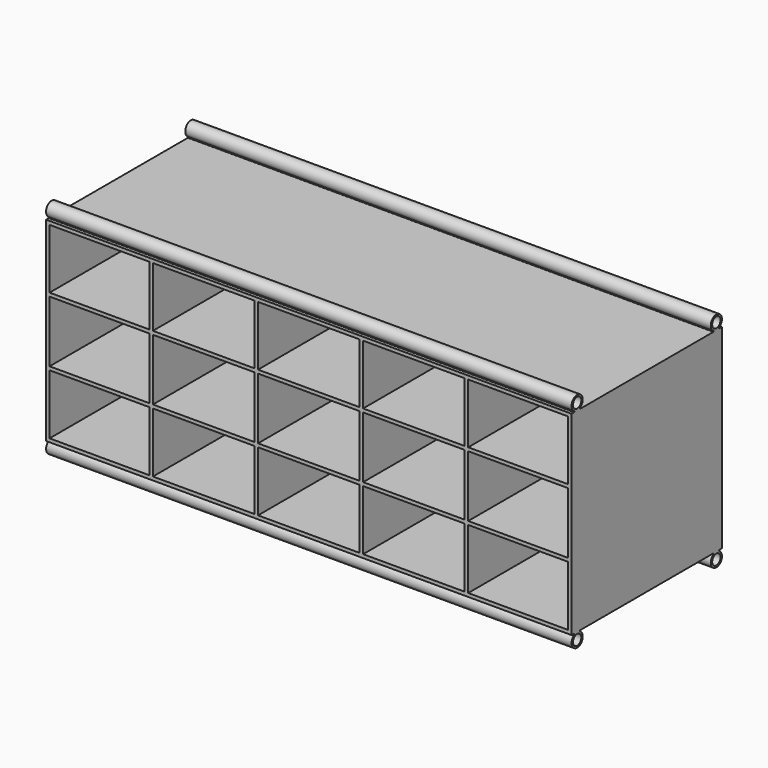
from build123d import *

# Parameters (mm, degrees)
F0_W     = 342.9
F0_H     = 355.6
F1_DEPTH = 479.425
F2_T     = -2.54
F3_R     = 9.525
F4_DEPTH = 958.85
F5_W     = 958.85
F5_H     = 355.6
F5_W_2   = 182.245
F5_H_2   = 109.347
F5_W_3   = 185.42
F5_H_3   = 112.014
F5_H_4   = 108.839
F6_DEPTH = 342.9
F7_R     = 1.016


with BuildPart() as f1:
    # F0 (on Right) → F1 (new body, symmetric)
    with BuildSketch(Plane.YZ):
        with Locations((-171.45, 177.8)):
            Rectangle(F0_W, F0_H)
    extrude(amount=F1_DEPTH, both=True)

    # F2
    f2_openings = [f1.faces().sort_by_distance(p)[0] for p in [
        (0, -342.9, 177.8),
    ]]
    offset(amount=F2_T, openings=f2_openings)

    # F3 (on face) → F4 (join, through all)
    with BuildSketch(Plane(origin=(-479.425, 0, 0), x_dir=(0, -1, 0), z_dir=(-1, 0, 0))):
        with BuildLine():
            Line((19.05, 355.6), (19.05, 357.3014773719))
            ThreePointArc((19.05, 357.3014773719), (12.7, 381), (6.35, 357.3014773719))
            Line((6.35, 357.3014773719), (6.35, 355.6))
            Line((6.35, 355.6), (19.05, 355.6))
        make_face()
        with Locations((12.7, 368.3)):
            Circle(F3_R, mode=Mode.SUBTRACT)
        with BuildLine():
            Line((336.55, 355.6), (336.55, 357.3014773719))
            ThreePointArc((336.55, 357.3014773719), (330.2, 381), (323.85, 357.3014773719))
            Line((323.85, 357.3014773719), (323.85, 355.6))
            Line((323.85, 355.6), (336.55, 355.6))
        make_face()
        with Locations((330.2, 368.3)):
            Circle(F3_R, mode=Mode.SUBTRACT)
        with BuildLine():
            Line((6.35, 0), (6.35, -1.7014773719))
            ThreePointArc((6.35, -1.7014773719), (12.7, -25.4), (19.05, -1.7014773719))
            Line((19.05, -1.7014773719), (19.05, 0))
            Line((19.05, 0), (6.35, 0))
        make_face()
        with Locations((12.7, -12.7)):
            Circle(F3_R, mode=Mode.SUBTRACT)
        with BuildLine():
            Line((323.85, 0), (323.85, -1.7014773719))
            ThreePointArc((323.85, -1.7014773719), (330.2, -25.4), (336.55, -1.7014773719))
            Line((336.55, -1.7014773719), (336.55, 0))
            Line((336.55, 0), (323.85, 0))
        make_face()
        with Locations((330.2, -12.7)):
            Circle(F3_R, mode=Mode.SUBTRACT)
    extrude(amount=-F4_DEPTH)

    # F5 (on face) → F6 (join, through all)
    with BuildSketch(Plane(origin=(0, 0, 0), x_dir=(-1, 0, 0), z_dir=(0, 1, 0))):
        with Locations((0, 177.8)):
            Rectangle(F5_W, F5_H)
        with Locations((-381.9525, 61.0235)):
            Rectangle(F5_W_2, F5_H_2, mode=Mode.SUBTRACT)
        with Locations((-191.77, 61.0235)):
            Rectangle(F5_W_3, F5_H_2, mode=Mode.SUBTRACT)
        with Locations((0, 61.0235)):
            Rectangle(F5_W_3, F5_H_2, mode=Mode.SUBTRACT)
        with Locations((191.77, 61.0235)):
            Rectangle(F5_W_3, F5_H_2, mode=Mode.SUBTRACT)
        with Locations((381.9525, 61.0235)):
            Rectangle(F5_W_2, F5_H_2, mode=Mode.SUBTRACT)
        with Locations((-381.9525, 178.054)):
            Rectangle(F5_W_2, F5_H_3, mode=Mode.SUBTRACT)
        with Locations((-191.77, 178.054)):
            Rectangle(F5_W_3, F5_H_3, mode=Mode.SUBTRACT)
        with Locations((0, 178.054)):
            Rectangle(F5_W_3, F5_H_3, mode=Mode.SUBTRACT)
        with Locations((-381.9525, 294.8305)):
            Rectangle(F5_W_2, F5_H_4, mode=Mode.SUBTRACT)
        with Locations((-191.77, 294.8305)):
            Rectangle(F5_W_3, F5_H_4, mode=Mode.SUBTRACT)
        with Locations((0, 294.8305)):
            Rectangle(F5_W_3, F5_H_4, mode=Mode.SUBTRACT)
        with Locations((191.77, 178.054)):
            Rectangle(F5_W_3, F5_H_3, mode=Mode.SUBTRACT)
        with Locations((381.9525, 178.054)):
            Rectangle(F5_W_2, F5_H_3, mode=Mode.SUBTRACT)
        with Locations((191.77, 294.8305)):
            Rectangle(F5_W_3, F5_H_4, mode=Mode.SUBTRACT)
        with Locations((381.9525, 294.8305)):
            Rectangle(F5_W_2, F5_H_4, mode=Mode.SUBTRACT)
    extrude(amount=-F6_DEPTH)

    # F7
    f7_edges = [f1.edges().sort_by_distance(p)[0] for p in [
        (0, -336.55, 357.301477),
        (0, -336.55, 355.6),
        (0, -323.85, 357.301477),
        (0, -323.85, 355.6),
        (0, -19.05, 355.6),
        (0, -19.05, 357.301477),
        (0, -6.35, 357.301477),
        (0, -6.35, 355.6),
        (0, -6.35, 0),
        (0, -6.35, -1.701477),
        (0, -19.05, 0),
        (0, -19.05, -1.701477),
        (0, -323.85, -1.701477),
        (0, -323.85, 0),
        (0, -336.55, 0),
        (0, -336.55, -1.701477),
    ]]
    fillet(f7_edges, radius=F7_R)


solid = f1.part
